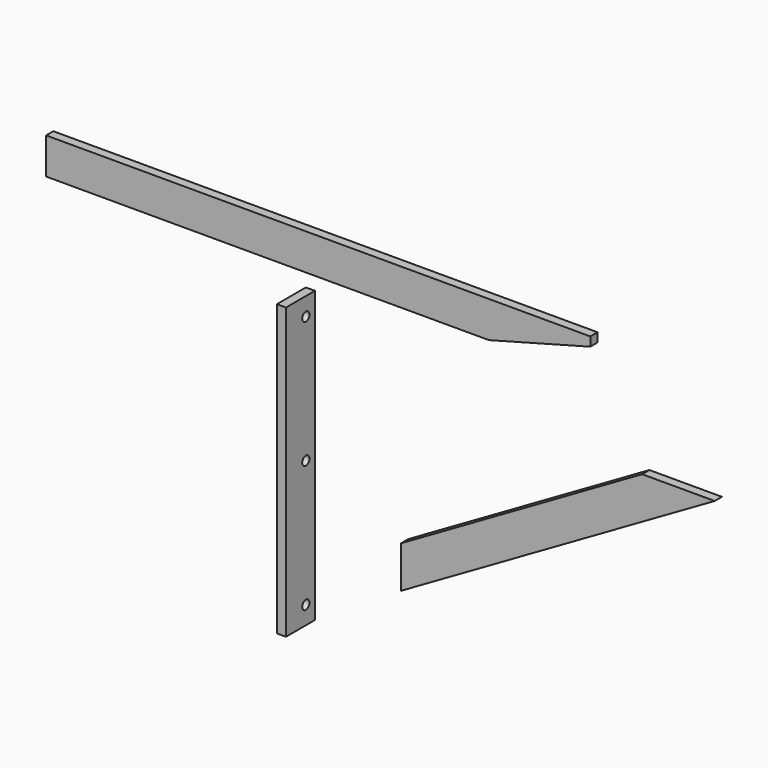
from build123d import *

# Parameters (mm, degrees)
F0_W     = 6.35
F0_H     = 203.2
F2_DEPTH = 25.4
F4_D     = 6.35
F6_DEPTH = 6.35
F8_DEPTH = 6.35


with BuildPart() as f2:
    # F0 (on Front) → F2 (new body)
    with BuildSketch(Plane.XZ):
        with Locations((-117.700584, 65.658997)):
            Rectangle(F0_W, F0_H)
    extrude(amount=-F2_DEPTH)

    # F4 (through all)
    with Locations(Plane.YZ.offset(-114.525584)):
        with Locations((17.4625, 154.558997), (17.4625, 65.658997), (17.4625, -23.241003)):
            Hole(F4_D / 2)


with BuildPart() as f6:
    # F5 (on face) → F6 (new body)
    with BuildSketch(Plane.XZ):
        Polygon((98.860206, 218.812712), (-282.64546, 218.812712), (-282.64546, 193.412712), (27.764638, 193.412712), (98.860206, 212.462712), align=None)
    extrude(amount=-F6_DEPTH)


with BuildPart() as f8:
    # F7 (on face) → F8 (new body)
    with BuildSketch(Plane.XZ):
        Polygon((140.294248, 149.840915), (-28.876204, 52.170309), (-28.876204, 22.840915), (191.094248, 149.840915), (148.710795, 149.840915), align=None)
    extrude(amount=F8_DEPTH)


solid = Compound([f2.part, f6.part, f8.part])
